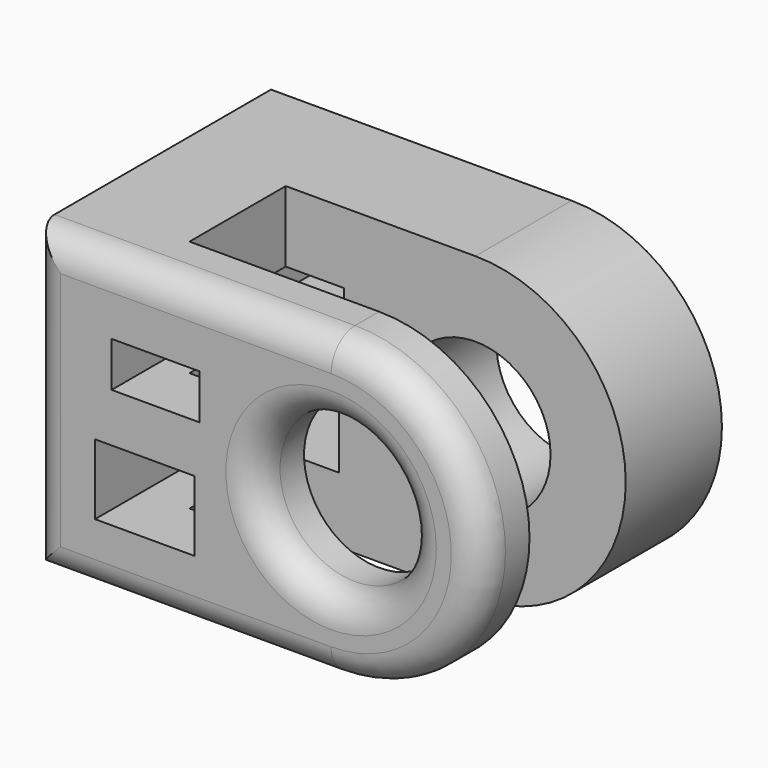
from build123d import *

# Parameters (mm, degrees)
F0_R     = 12.5
F1_DEPTH = 20
F3_R     = 12.5
F4_DEPTH = 10
F5_W     = 18.4501476586
F5_H     = 50
F6_DEPTH = 20
F7_R     = 5
F8_W     = 14.6253928542
F8_H     = 7.4752001092
F8_W_2   = 16.5754444897
F8_H_2   = 11.7003135383
F9_DEPTH = 50.001


with BuildPart() as f1:
    # F0 (on Front) → F1 (new body)
    with BuildSketch(Plane.XZ):
        with BuildLine():
            Line((-50, -25), (0, -25))
            ThreePointArc((0, -25), (25, 0), (0, 25))
            Line((0, 25), (-50, 25))
            Line((-50, 25), (-50, -25))
        make_face()
        Circle(F0_R, mode=Mode.SUBTRACT)
    extrude(amount=F1_DEPTH)



with BuildPart() as f4:
    # F3 (on offset) → F4 (new body)
    with BuildSketch(Plane.XZ.offset(40)):
        with BuildLine():
            Line((-50, 25), (-50, -25))
            Line((-50, -25), (0, -25))
            ThreePointArc((0, -25), (25, 0), (0, 25))
            Line((0, 25), (-50, 25))
        make_face()
        Circle(F3_R, mode=Mode.SUBTRACT)
    extrude(amount=F4_DEPTH)


with BuildPart() as f1_1:
    add(f1.part)

    add(f4.part)  # F6 merges F4
    # F5 (on face) → F6 (join, through all)
    with BuildSketch(Plane.XZ.offset(20)):
        with Locations((-40.7749261707, 0)):
            Rectangle(F5_W, F5_H)
    extrude(amount=F6_DEPTH)

    # F7
    f7_edges = [f1_1.edges().sort_by_distance(p)[0] for p in [
        (-25, -50, 25),
        (-50, -50, 0),
        (-25, -50, -25),
        (25, -50, 0),
        (-12.5, -50, 0),
    ]]
    fillet(f7_edges, radius=F7_R)

    # F8 (on face) → F9 (cut, through all)
    with BuildSketch(Plane.XZ.offset(50)):
        with Locations((-29.1888378561, 9.4781569205)):
            Rectangle(F8_W, F8_H)
        with Locations((-30.9763848782, -8.2348193973)):
            Rectangle(F8_W_2, F8_H_2)
    extrude(amount=-F9_DEPTH, mode=Mode.SUBTRACT)


solid = f1_1.part
